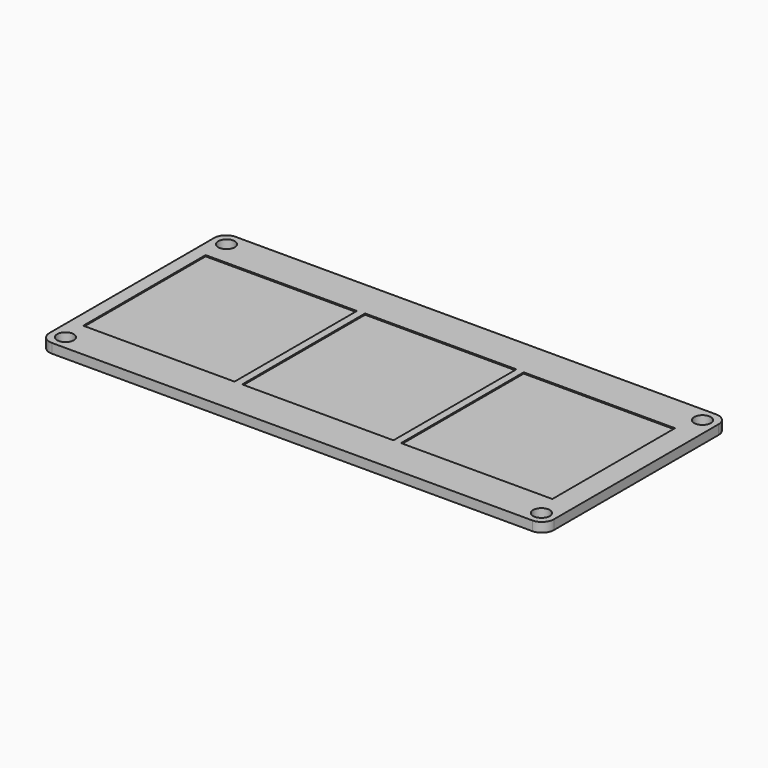
from build123d import *

# Parameters (mm, degrees)
F0_R     = 3.5
F2_DEPTH = 4
F1_W     = 63.9
F1_H     = 64.6
F1_H_2   = 64.90187
F1_H_3   = 64.750935
F3_DEPTH = 0.5


with BuildPart() as f2:
    # F0 (on Top) → F2 (new body)
    with BuildSketch(Plane.XY):
        with BuildLine():
            Line((-101.5, -48.5), (101.5, -48.5))
            ThreePointArc((101.5, -48.5), (105.035534, -47.035534), (106.5, -43.5))
            Line((106.5, -43.5), (106.5, 43.5))
            ThreePointArc((106.5, 43.5), (105.035534, 47.035534), (101.5, 48.5))
            Line((101.5, 48.5), (-101.5, 48.5))
            ThreePointArc((-101.5, 48.5), (-105.035534, 47.035534), (-106.5, 43.5))
            Line((-106.5, 43.5), (-106.5, -43.5))
            ThreePointArc((-106.5, -43.5), (-105.035534, -47.035534), (-101.5, -48.5))
        make_face()
        with Locations((-100.5, -42.5)):
            Circle(F0_R, mode=Mode.SUBTRACT)
        with Locations((100.5, -42.5)):
            Circle(F0_R, mode=Mode.SUBTRACT)
        with Locations((-100.5, 42.5)):
            Circle(F0_R, mode=Mode.SUBTRACT)
        with Locations((100.5, 42.5)):
            Circle(F0_R, mode=Mode.SUBTRACT)
        with BuildLine():
            Line((-101.5, -48.5), (101.5, -48.5))
            ThreePointArc((101.5, -48.5), (105.035534, -47.035534), (106.5, -43.5))
            Line((106.5, -43.5), (106.5, 43.5))
            ThreePointArc((106.5, 43.5), (105.035534, 47.035534), (101.5, 48.5))
            Line((101.5, 48.5), (-101.5, 48.5))
            ThreePointArc((-101.5, 48.5), (-105.035534, 47.035534), (-106.5, 43.5))
            Line((-106.5, 43.5), (-106.5, -43.5))
            ThreePointArc((-106.5, -43.5), (-105.035534, -47.035534), (-101.5, -48.5))
        make_face()
        with Locations((-100.5, -42.5)):
            Circle(F0_R, mode=Mode.SUBTRACT)
        with Locations((100.5, -42.5)):
            Circle(F0_R, mode=Mode.SUBTRACT)
        with Locations((-100.5, 42.5)):
            Circle(F0_R, mode=Mode.SUBTRACT)
        with Locations((100.5, 42.5)):
            Circle(F0_R, mode=Mode.SUBTRACT)
    extrude(amount=-F2_DEPTH)

    # F1 (on face) → F3 (cut)
    with BuildSketch(Plane.XY):
        with Locations((-69.1, -0.150935)):
            Rectangle(F1_W, F1_H)
        with Locations((-2, 0)):
            Rectangle(F1_W, F1_H_2)
        with Locations((65.1, -0.075468)):
            Rectangle(F1_W, F1_H_3)
    extrude(amount=-F3_DEPTH, mode=Mode.SUBTRACT)


solid = f2.part
